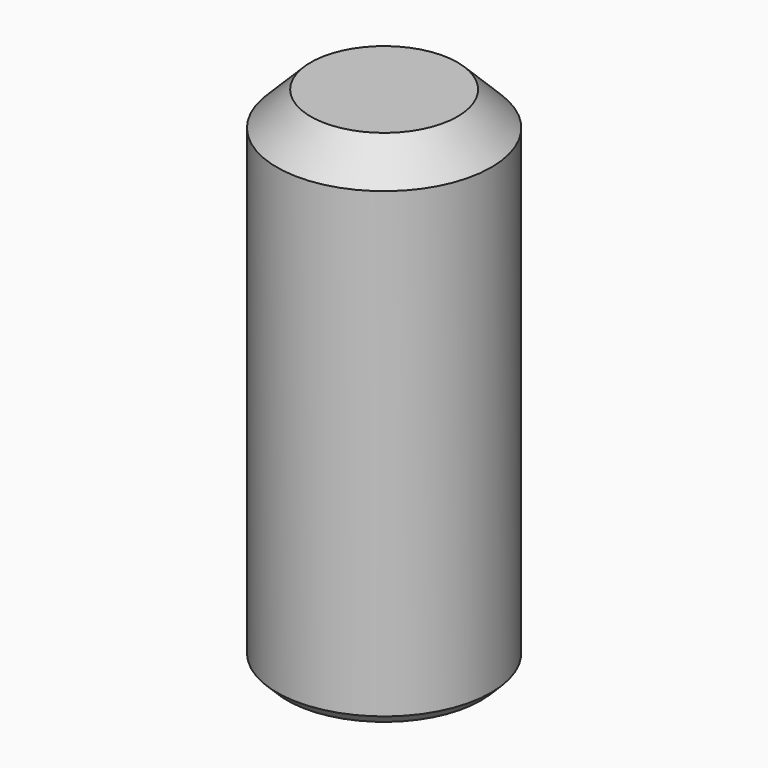
from build123d import *

# Parameters (mm, degrees)
SKETCH022_R     = 3.175
PAD011_DEPTH    = 15
CHAMFER_SIZE    = 0.3
CHAMFER001_SIZE = 1


with BuildPart() as part:
    # Sketch022 → Pad011 (new body)
    with BuildSketch(Plane.XY):
        Circle(SKETCH022_R)
    extrude(amount=PAD011_DEPTH)

    # Chamfer
    chamfer_edges = [part.edges().sort_by_distance(p)[0] for p in [
        (-3.175, 0, 0),
    ]]
    chamfer(chamfer_edges, length=CHAMFER_SIZE)

    # Chamfer001
    chamfer001_edges = [part.edges().sort_by_distance(p)[0] for p in [
        (-3.175, 0, 15),
    ]]
    chamfer(chamfer001_edges, length=CHAMFER001_SIZE)


with BuildPart() as part_1:
    # Body003003 placement: moved
    add(part.part.moved(Location((0, 0, 8))))


solid = part_1.part
